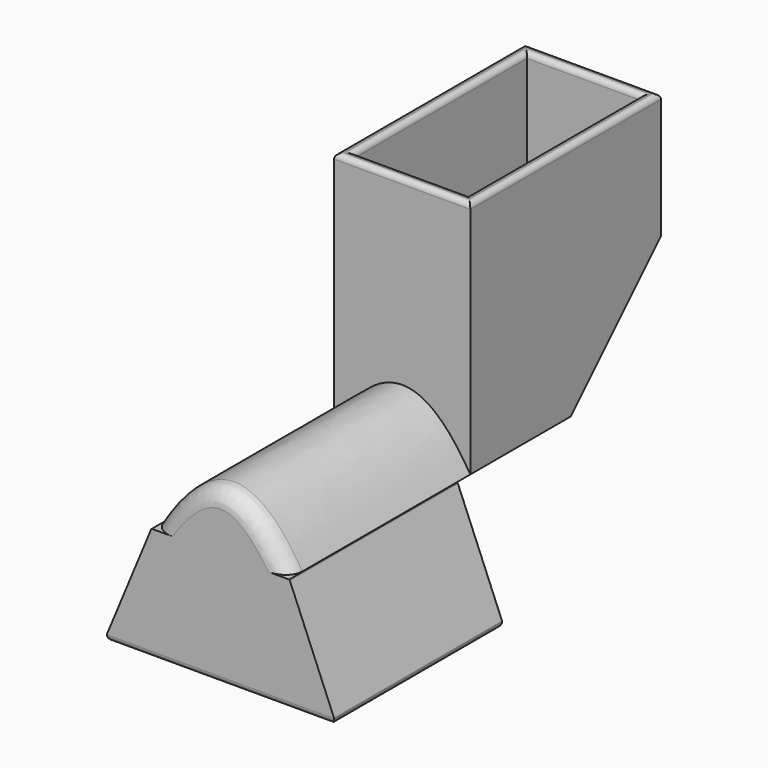
from build123d import *

# Parameters (mm, degrees)
SKETCH_W            = 24
SKETCH_H            = 42
PAD_DEPTH           = 22
SKETCH001_W         = 20
SKETCH001_H         = 38
POCKET_DEPTH        = 20
SKETCH002_W         = 20
SKETCH002_H         = 6
POCKET001_DEPTH     = 5
POCKET001_FACE4_W   = 42
POCKET001_FACE4_H   = 24
POCKET001_FACE4_W_2 = 6
POCKET001_FACE4_H_2 = 20
PAD001_DEPTH        = 20
CHAMFER_SIZE        = 19.9
PAD002_DEPTH        = 40
FILLET_R            = 3
FILLET001_R         = 0.9
SKETCH004_W         = 40
SKETCH004_H         = 37
PAD003_DEPTH        = 20
FILLET002_R         = 1
CHAMFER001_SIZE     = 7.9
CHAMFER002_SIZE     = 11


with BuildPart() as part:
    # Sketch → Pad (new body)
    with BuildSketch(Plane.XY):
        with Locations((0, 24)):
            Rectangle(SKETCH_W, SKETCH_H)
    extrude(amount=PAD_DEPTH)

    # Sketch001 (on Face6 of Pad) → Pocket (cut)
    with BuildSketch(Plane.XY.offset(22)):
        with Locations((0, 24)):
            Rectangle(SKETCH001_W, SKETCH001_H)
    extrude(amount=-POCKET_DEPTH, mode=Mode.SUBTRACT)

    # Sketch002 (on Face11 of Pocket) → Pocket001 (cut)
    with BuildSketch(Plane.XY.offset(2)):
        with Locations((0, 14)):
            Rectangle(SKETCH002_W, SKETCH002_H)
    extrude(amount=-POCKET001_DEPTH, mode=Mode.SUBTRACT)

    # Pocket001 Face4 → Pad001 (add)
    with BuildSketch(Plane(origin=(0, 25.351351, 0), x_dir=(0, -1, 0), z_dir=(0, 0, -1))):
        with Locations((1.351351, 0)):
            Rectangle(POCKET001_FACE4_W, POCKET001_FACE4_H)
        with Locations((11.351351, 0)):
            Rectangle(POCKET001_FACE4_W_2, POCKET001_FACE4_H_2, mode=Mode.SUBTRACT)
    extrude(amount=PAD001_DEPTH)

    # Chamfer
    chamfer_edges = [part.edges().sort_by_distance(p)[0] for p in [
        (0, 45, -20),
    ]]
    chamfer(chamfer_edges, length=CHAMFER_SIZE)

    # Sketch003 (on Face8 of Chamfer) → Pad002 (join)
    with BuildSketch(Plane.XZ.offset(-3)):
        with BuildLine():
            Line((12, -20), (-12, -20))
            add(Edge.make_bspline(
                [(-12, -20), (0, 0), (12, -20)],
                knots=[0, 0, 0, 1, 1, 1], degree=2))
        make_face()
    extrude(amount=PAD002_DEPTH)

    # Fillet
    fillet_edges = [part.edges().sort_by_distance(p)[0] for p in [
        (-0.002974, -37, -10.000001),
    ]]
    fillet(fillet_edges, radius=FILLET_R)

    # Fillet001
    fillet001_edges = [part.edges().sort_by_distance(p)[0] for p in [
        (0, 45, 22),
        (-12, 24, 22),
        (12, 24, 22),
        (0, 3, 22),
        (0, 43, 22),
        (10, 24, 22),
        (0, 5, 22),
        (-10, 24, 22),
    ]]
    fillet(fillet001_edges, radius=FILLET001_R)

    # Sketch004 (on Face21 of Fillet001) → Pad003 (join)
    with BuildSketch(Plane(origin=(0, 0, -20), x_dir=(1, 0, 0), z_dir=(0, 0, -1))):
        with Locations((0, 18.5)):
            Rectangle(SKETCH004_W, SKETCH004_H)
    extrude(amount=PAD003_DEPTH)

    # Fillet002
    fillet002_edges = [part.edges().sort_by_distance(p)[0] for p in [
        (0, -37, -40),
        (20, -18.5, -40),
        (0, 0, -40),
        (-20, -18.5, -40),
    ]]
    fillet(fillet002_edges, radius=FILLET002_R)

    # Chamfer001
    chamfer001_edges = [part.edges().sort_by_distance(p)[0] for p in [
        (-20, -18.5, -20),
        (20, -18.5, -20),
    ]]
    chamfer(chamfer001_edges, length=CHAMFER001_SIZE)

    # Chamfer002
    chamfer002_edges = [part.edges().sort_by_distance(p)[0] for p in [
        (20, -18.5, -27.9),
        (-20, -18.5, -27.9),
    ]]
    chamfer(chamfer002_edges, length=CHAMFER002_SIZE)


solid = part.part
